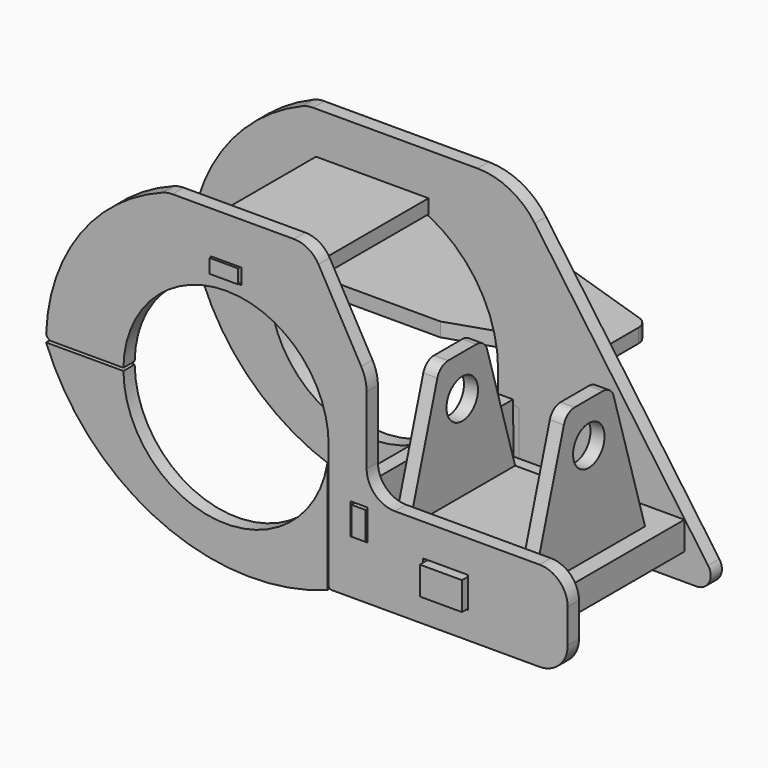
from build123d import *

# Parameters (mm, degrees)
F0_W      = 16
F0_H      = 11
F1_DEPTH  = 5
F3_DEPTH  = 5
F4_W      = 15
F4_H      = 7
F5_DEPTH  = 10
F7_DEPTH  = 50
F8_R      = 7
F9_DEPTH  = 602
F10_W     = 16
F10_H     = 11
F10_W_2   = 6
F10_W_3   = 11
F10_H_2   = 5.5
F11_DEPTH = 5
F12_W     = 10
F12_H     = 6
F13_DEPTH = 5
F14_W     = 6
F14_H     = 10
F15_DEPTH = 5
F16_W     = 40.4
F16_H     = 50
F16_R     = 7
F17_DEPTH = 5


with BuildPart() as f1:
    # F0 (on Front) → F1 (new body)
    with BuildSketch(Plane.XZ):
        with BuildLine():
            ThreePointArc((-44.75, 0), (-38.0628591937, 23.5325572346), (-20, 40.0320184352))
            Line((-20, 40.0320184352), (-5.5, 40.0320184352))
            Line((-5.5, 40.0320184352), (-5.5, 45.5320184352))
            Line((-5.5, 45.5320184352), (5.5, 45.5320184352))
            Line((5.5, 45.5320184352), (5.5, 40.0320184352))
            Line((5.5, 40.0320184352), (20, 40.0320184352))
            ThreePointArc((20, 40.0320184352), (38.0628591937, 23.5325572346), (44.75, 0))
            Line((44.75, 0), (44.75, -15))
            Line((44.75, -15), (50.25, -15))
            Line((50.25, -15), (50.25, -26))
            Line((50.25, -26), (44.75, -26))
            Line((44.75, -26), (44.75, -45))
            Line((44.75, -45), (115.3384250636, -45))
            ThreePointArc((115.3384250636, -45), (119.7790192257, -42.2980695132), (119.4203426893, -37.1124493949))
            Line((119.4203426893, -37.1124493949), (57.8183353545, 49.9697714605))
            ThreePointArc((57.8183353545, 49.9697714605), (48.8990947917, 57.7349892458), (37.4087472259, 60.5320184352))
            Line((37.4087472259, 60.5320184352), (-21.0731490969, 60.5320184352))
            ThreePointArc((-21.0731490969, 60.5320184352), (-23.0358100352, 60.3375251555), (-24.9221261009, 59.7616108435))
            ThreePointArc((-24.9221261009, 59.7616108435), (-53.5974466329, 36.3301006665), (-64.742033343, 1.0156862745))
            ThreePointArc((-64.742033343, 1.0156862745), (-64.4547875171, 0.2984610754), (-63.7421563802, 0))
            Line((-63.7421563802, 0), (-44.75, 0))
        make_face()
        with Locations((78, -30)):
            Rectangle(F0_W, F0_H, mode=Mode.SUBTRACT)
    extrude(amount=F1_DEPTH)


with BuildPart() as f3:
    # F2 (on Front) → F3 (new body)
    with BuildSketch(Plane.XZ):
        with BuildLine():
            ThreePointArc((34.7452688352, -11.1810685343), (-0.7019415454, -36.4932497603), (-35.1495411988, -9.8366535729))
            ThreePointArc((-35.1495411988, -9.8366535729), (-35.2906163676, -9.4552639466), (-35.4916558634, -9.10179065))
            Line((-35.4916558634, -9.10179065), (-46.8141702893, 7.5))
            Line((-46.8141702893, 7.5), (-63.0992528337, 7.5))
            ThreePointArc((-63.0992528337, 7.5), (-63.8739545458, 7.1323268596), (-64.0789822352, 6.2996745148))
            ThreePointArc((-64.0789822352, 6.2996745148), (-18.5697408757, -48.0433417775), (51.8251365248, -39.7478186089))
            ThreePointArc((51.8251365248, -39.7478186089), (52.1374504281, -39.3906643432), (52.25, -38.9297611673))
            Line((52.25, -38.9297611673), (52.25, -10.4468951462))
            ThreePointArc((52.25, -10.4468951462), (51.9571067812, -9.7397883651), (51.25, -9.4468951462))
            Line((51.25, -9.4468951462), (37.1250817691, -9.4468951462))
            ThreePointArc((37.1250817691, -9.4468951462), (35.6527649774, -9.9264290453), (34.7452688352, -11.1810685343))
        make_face()
    extrude(amount=F3_DEPTH)


with BuildPart() as f5:
    # F4 (on face) → F5 (new body)
    with BuildSketch(Plane.XY.offset(-35.5)):
        Polygon((70.5, -5), (46.5, -5), (46.5, -65), (70.5, -65), (85.5, -65), (111, -65), (111, -5), (85.5, -5), align=None)
        with Locations((78, -1.5)):
            Rectangle(F4_W, F4_H)
        with Locations((78, -68.5)):
            Rectangle(F4_W, F4_H)
    extrude(amount=F5_DEPTH)


with BuildPart() as f7:
    # F6 (on face) → F7 (new body)
    with BuildSketch(Plane.XZ.offset(65)):
        Polygon((60, -20.5), (60, 24.5), (55, 24.5), (55, -25.5), (105, -25.5), (105, 24.5), (100, 24.5), (100, -20.5), align=None)
    extrude(amount=-F7_DEPTH)

    # F8 (on face) → F9 (cut)
    with BuildSketch(Plane.YZ.offset(105)):
        with Locations((-40, 10)):
            Circle(F8_R)
        with BuildLine():
            Line((-15, 24.5), (-33.7201532545, 24.5))
            ThreePointArc((-33.7201532545, 24.5), (-30.7355006063, 23.5114646414), (-28.9310218283, 20.9367394278))
            Line((-28.9310218283, 20.9367394278), (-15, -25.5))
            Line((-15, -25.5), (-15, 24.5))
        make_face()
        with BuildLine():
            ThreePointArc((-51.0689781717, 20.9367394278), (-49.2644993937, 23.5114646414), (-46.2798467455, 24.5))
            Line((-46.2798467455, 24.5), (-65, 24.5))
            Line((-65, 24.5), (-65, -25.5))
            Line((-65, -25.5), (-51.0689781717, 20.9367394278))
        make_face()
    extrude(amount=-F9_DEPTH, mode=Mode.SUBTRACT)


with BuildPart() as f11:
    # F10 (on face) → F11 (new body)
    with BuildSketch(Plane.XZ.offset(65)):
        with BuildLine():
            ThreePointArc((-36.4965751818, 0.5), (0.2500058646, 36.4991437854), (36.5, 0))
            Line((36.5, 0), (36.5, -44))
            ThreePointArc((36.5, -44), (36.7928932188, -44.7071067812), (37.5, -45))
            Line((37.5, -45), (111.5, -45))
            ThreePointArc((111.5, -45), (118.5710678119, -42.0710678119), (121.5, -35))
            Line((121.5, -35), (121.5, -23))
            ThreePointArc((121.5, -23), (118.5710678119, -15.9289321881), (111.5, -13))
            Line((111.5, -13), (60, -13))
            ThreePointArc((60, -13), (52.9289321881, -10.0710678119), (50, -3))
            Line((50, -3), (50, 0.018009717))
            Line((50, 0.018009717), (50, 21.0684654677))
            ThreePointArc((50, 21.0684654677), (49.5098805968, 24.8715385761), (48.0715513243, 28.4260836948))
            Line((48.0715513243, 28.4260836948), (32.8677915898, 55.4370972533))
            ThreePointArc((32.8677915898, 55.4370972533), (29.2006614936, 59.1648276009), (24.1534240403, 60.5320184352))
            Line((24.1534240403, 60.5320184352), (-19.0356554977, 60.5320184352))
            ThreePointArc((-19.0356554977, 60.5320184352), (-20.8272522454, 60.3702185295), (-22.5608729561, 59.890054654))
            ThreePointArc((-22.5608729561, 59.890054654), (-51.8842214925, 37.4678421465), (-63.9464768042, 2.5806470755))
            ThreePointArc((-63.9464768042, 2.5806470755), (-63.3905482792, 1.1145928669), (-61.9481034534, 0.5))
            Line((-61.9481034534, 0.5), (-36.4965751818, 0.5))
        make_face()
        with Locations((78, -30)):
            Rectangle(F10_W, F10_H, mode=Mode.SUBTRACT)
        with Locations((47.25, -20.5)):
            Rectangle(F10_W_2, F10_H, mode=Mode.SUBTRACT)
        with Locations((0, 42.75)):
            Rectangle(F10_W_3, F10_H_2, mode=Mode.SUBTRACT)
    extrude(amount=F11_DEPTH)


with BuildPart() as f11b:
    # F10 (on face) → F11, piece 2 (new body)
    with BuildSketch(Plane.XZ.offset(65)):
        with BuildLine():
            ThreePointArc((36, -6.0207972894), (-2.7715424235, -36.394622578), (-36.4965751818, -0.5))
            Line((-36.4965751818, -0.5), (-63.9965751818, -0.5))
            ThreePointArc((-63.9965751818, -0.5), (-23.2202611112, -43.4925726322), (36, -45.5))
            Line((36, -45.5), (36, -6.0207972894))
        make_face()
    extrude(amount=F11_DEPTH)


with BuildPart() as f13:
    # F12 (on face) → F13 (new body)
    with BuildSketch(Plane(origin=(0, 0, 45.5320184352), x_dir=(1, 0, 0), z_dir=(0, 0, -1))):
        Polygon((-20, 65), (-20, 5), (-5, 5), (5, 5), (20, 5), (20, 65), (5, 65), (-5, 65), align=None)
        with Locations((0, 2)):
            Rectangle(F12_W, F12_H)
        with Locations((0, 68)):
            Rectangle(F12_W, F12_H)
    extrude(amount=F13_DEPTH)


with BuildPart() as f15:
    # F14 (on face) → F15 (new body)
    with BuildSketch(Plane(origin=(50.25, 0, 0), x_dir=(0, -1, 0), z_dir=(-1, 0, 0))):
        Polygon((64.75, -7.5), (5.25, -7.5), (5.25, -15.5), (5.25, -25.5), (5.25, -42.5), (64.75, -42.5), (64.75, -26), (64.75, -25.5), (64.75, -15.5), align=None)
        with Locations((2.25, -20.5)):
            Rectangle(F14_W, F14_H)
        with Locations((67.75, -20.5)):
            Rectangle(F14_W, F14_H)
    extrude(amount=F15_DEPTH)


with BuildPart() as f17:
    # F16 (on Top) → F17 (new body)
    with BuildSketch(Plane.XY):
        with Locations((0, 25)):
            Rectangle(F16_W, F16_H)
        with BuildLine():
            Line((-62.0717054726, 13.8648031366), (-20.2, 0))
            Line((-20.2, 0), (-20.2, 50))
            Line((-20.2, 50), (-62.0717054726, 36.1351968634))
            ThreePointArc((-62.0717054726, 36.1351968634), (-64.5533028115, 34.3162283279), (-65.5, 31.3886463362))
            Line((-65.5, 31.3886463362), (-65.5, 18.6113536638))
            ThreePointArc((-65.5, 18.6113536638), (-64.5533028115, 15.6837716721), (-62.0717054726, 13.8648031366))
        make_face()
        with Locations((-51, 25)):
            Circle(F16_R, mode=Mode.SUBTRACT)
        with BuildLine():
            Line((20.2, 50), (20.2, 0))
            Line((20.2, 0), (62.0717054726, 13.8648031366))
            ThreePointArc((62.0717054726, 13.8648031366), (64.5533028115, 15.6837716721), (65.5, 18.6113536638))
            Line((65.5, 18.6113536638), (65.5, 31.3886463362))
            ThreePointArc((65.5, 31.3886463362), (64.5533028115, 34.3162283279), (62.0717054726, 36.1351968634))
            Line((62.0717054726, 36.1351968634), (20.2, 50))
        make_face()
    extrude(amount=F17_DEPTH)


solid = Compound([f1.part, f3.part, f5.part, f7.part, f11.part, f11b.part, f13.part, f15.part, f17.part])
